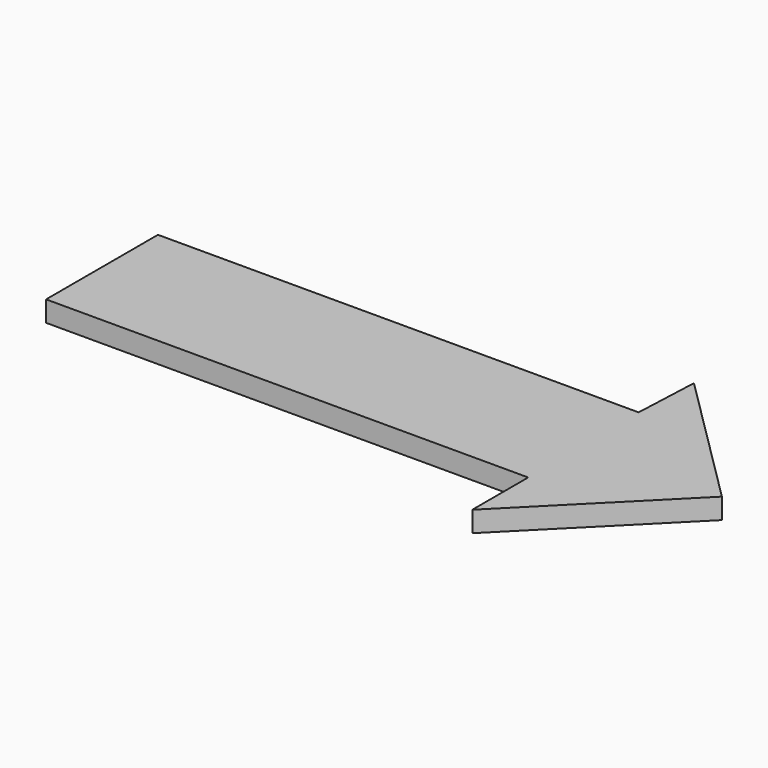
from build123d import *

# Parameters (mm, degrees)
PAD_DEPTH = 3


with BuildPart() as part:
    # Sketch → Pad (new body)
    with BuildSketch(Plane.XY):
        Polygon((-30.1269, 10.253766), (-30.1269, -10.042215), (39.851963, -10.042215), (39.851963, -20.190207), (59.936523, 0), (40.063381, 19.767508), (39.640545, 10.253766), align=None)
    extrude(amount=PAD_DEPTH)


solid = part.part
